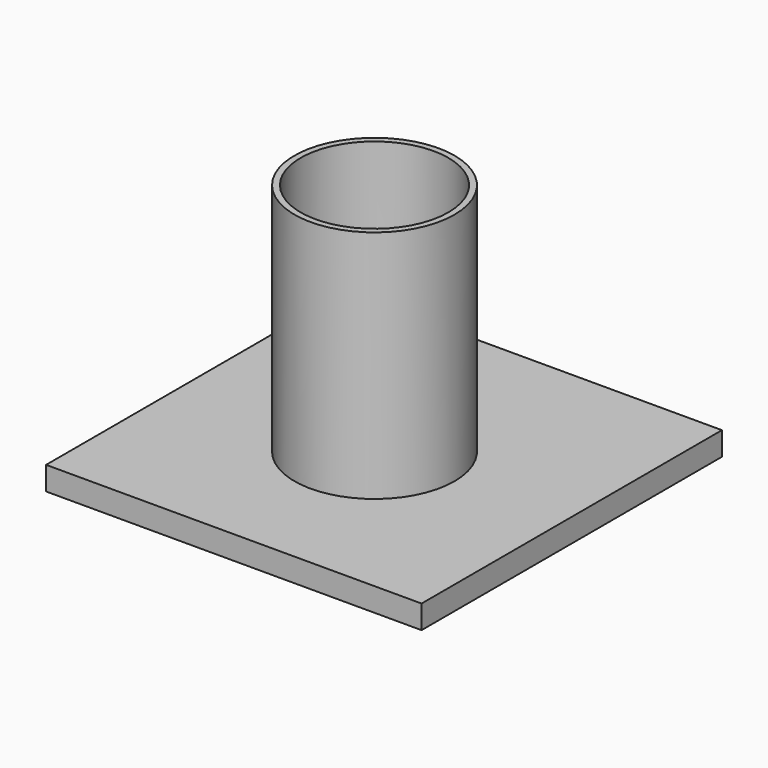
from build123d import *

# Parameters (mm, degrees)
SKETCH010_W   = 160
SKETCH010_H   = 160
PAD009_DEPTH  = 10
SKETCH011_R   = 34.1
SKETCH011_R_2 = 31.475436
PAD010_DEPTH  = 100


with BuildPart() as body011:
    # Sketch010 (on Face1 of CopyBoolean001) → Pad009 (new body)
    with BuildSketch(Plane.XY):
        with Locations((0.584024, 4.328783)):
            Rectangle(SKETCH010_W, SKETCH010_H)
    extrude(amount=PAD009_DEPTH)


with BuildPart() as motoradapter:
    # Sketch011 (on Face1 of CopyPad009) → Pad010 (new body)
    with BuildSketch(Plane.XY.offset(10)):
        Circle(SKETCH011_R)
        Circle(SKETCH011_R_2, mode=Mode.SUBTRACT)
    extrude(amount=PAD010_DEPTH)

    # Boolean002: union Body011
    add(body011.part)


solid = motoradapter.part
